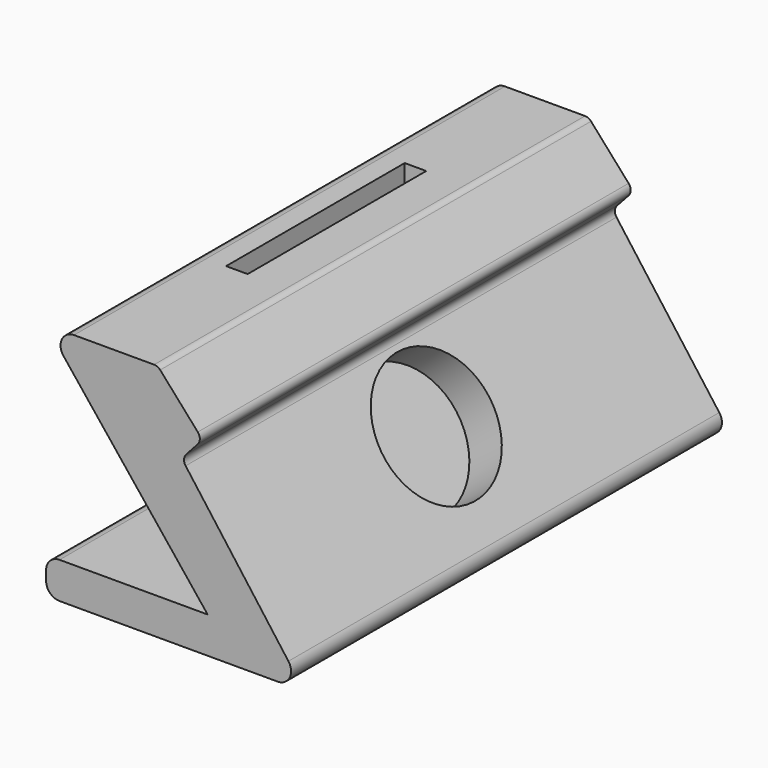
from build123d import *

# Parameters (mm, degrees)
F1_DEPTH = 200
F2_W     = 8
F2_H     = 82.9011678715
F3_DEPTH = 19.5
F4_R     = 24.4008451418
F5_DEPTH = 15


with BuildPart() as f1:
    # F0 (on Front) → F1 (new body)
    with BuildSketch(Plane.XZ):
        with BuildLine():
            Line((0, 45.3068651259), (-12.3650406395, 45.3068651259))
            ThreePointArc((-12.3650406395, 45.3068651259), (-16.8699670467, 42.4761133979), (-16.2739621693, 37.1891203522))
            Line((-16.2739621693, 37.1891203522), (37.2513475231, -29.9190782446))
            Line((37.2513475231, -29.9190782446), (-17.7486524769, -29.9190782446))
            ThreePointArc((-17.7486524769, -29.9190782446), (-21.2841863828, -31.3835443387), (-22.7486524769, -34.9190782446))
            Line((-22.7486524769, -34.9190782446), (-22.7486524769, -38.4026915))
            ThreePointArc((-22.7486524769, -38.4026915), (-21.2841863828, -41.9382254059), (-17.7486524769, -43.4026915))
            Line((-17.7486524769, -43.4026915), (63.2359994792, -43.4026915))
            ThreePointArc((63.2359994792, -43.4026915), (67.7023811618, -40.6502311917), (67.2513475231, -35.4232653662))
            Line((67.2513475231, -35.4232653662), (29.0742767855, 16.0276582094))
            ThreePointArc((29.0742767855, 16.0276582094), (28.4873114519, 17.9667747875), (29.2668350391, 19.8368133922))
            Line((29.2668350391, 19.8368133922), (33.5585934884, 24.5428886656))
            ThreePointArc((33.5585934884, 24.5428886656), (34.3418720133, 26.5437627089), (33.5861795165, 28.5552176636))
            Line((33.5861795165, 28.5552176636), (19.6212582392, 44.2976946213))
            ThreePointArc((19.6212582392, 44.2976946213), (18.6073694579, 45.0429653147), (17.3770216384, 45.3068651259))
            Line((17.3770216384, 45.3068651259), (0, 45.3068651259))
        make_face()
    extrude(amount=F1_DEPTH)

    # F2 (on face) → F3 (cut)
    with BuildSketch(Plane.XY.offset(45.3068651259)):
        with Locations((-0.9822997963, -97.1923060715)):
            Rectangle(F2_W, F2_H)
    extrude(amount=-F3_DEPTH, mode=Mode.SUBTRACT)

    # F4 (on face) → F5 (cut)
    with BuildSketch(Plane(origin=(26.4204382833, 0, 19.6042144857), x_dir=(0, 1, 0), z_dir=(0.8030696088, 0, 0.5958852268))):
        with Locations((-103.3766940236, -30.9382844716)):
            Circle(F4_R)
    extrude(amount=-F5_DEPTH, mode=Mode.SUBTRACT)


solid = f1.part
